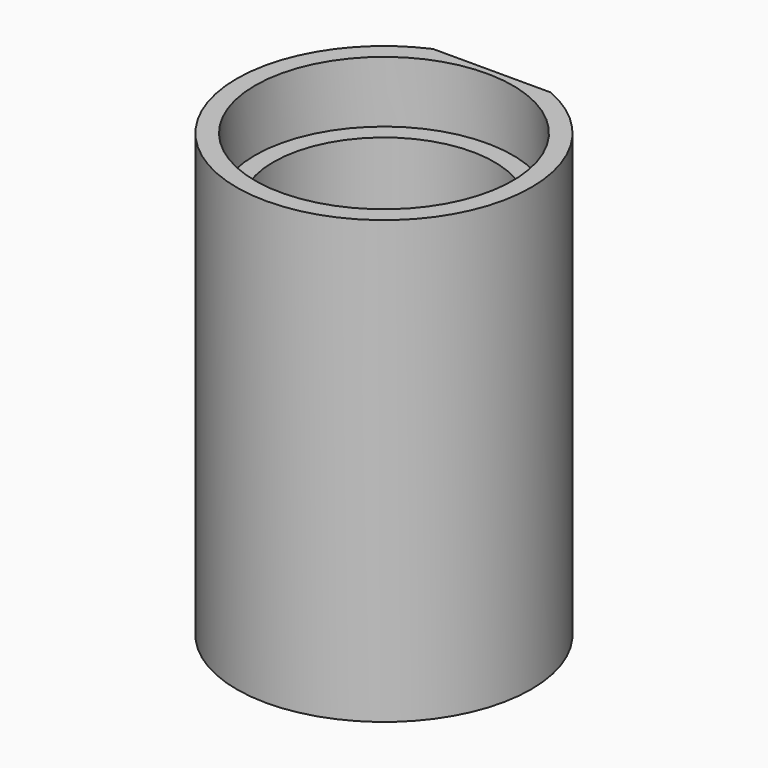
from build123d import *

# Parameters (mm, degrees)
F2_W     = 5
F2_H     = 1.851495
F3_DEPTH = 38


with BuildPart() as f1:
    # F0 (on Front) → F1 (revolve)
    with BuildSketch(Plane.XZ):
        with BuildLine():
            Line((-12, -4), (0, -4))
            Line((0, -4), (0, 0))
            ThreePointArc((0, 0), (-4.924508, 1.045005), (-9.000146, 4))
            Line((-9.000146, 4), (-9.000146, 27))
            Line((-9.000146, 27), (-10.5, 27))
            Line((-10.5, 27), (-10.5, 32))
            Line((-10.5, 32), (-12, 32))
            Line((-12, 32), (-12, 29))
            Line((-12, 29), (-12, 4))
            Line((-12, 4), (-12, -4))
        make_face()
    revolve(axis=Axis((0, 0, -2), (0, 0, 1)))

    # F2 (on face) → F3 (cut)
    with BuildSketch(Plane.XY.offset(32)):
        with Locations((2.5, 11.925747)):
            Rectangle(F2_W, F2_H)
        with Locations((-2.5, 11.925747)):
            Rectangle(F2_W, F2_H)
    extrude(amount=-F3_DEPTH, mode=Mode.SUBTRACT)


solid = f1.part
